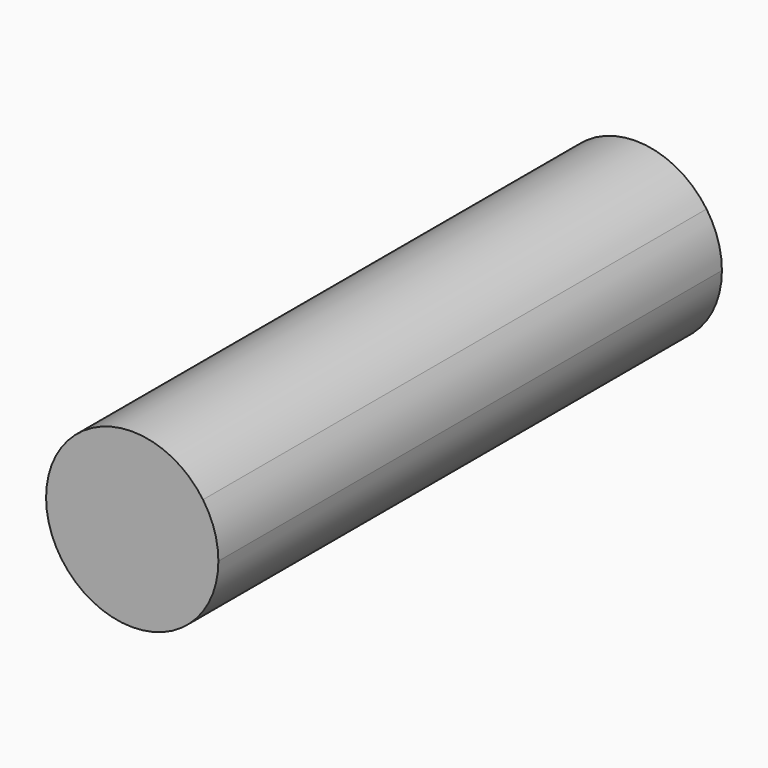
from build123d import *

# Parameters (mm, degrees)
F1_DEPTH = 25.4


with BuildPart() as f1:
    # F0 (on Front) → F1 (new body)
    with BuildSketch(Plane.XZ):
        with BuildLine():
            Line((-27.4963983576, 49.4537892033), (-30.3528066725, 47.4717915058))
            Line((-30.3528066725, 47.4717915058), (-30.3528066725, 43.9951000708))
            ThreePointArc((-30.3528066725, 43.9951000708), (-27.8944145827, 45.0133994161), (-26.8761152375, 47.4717915058))
            ThreePointArc((-26.8761152375, 47.4717915058), (-27.0348077531, 48.5101876275), (-27.4963983576, 49.4537892033))
        make_face()
        with BuildLine():
            Line((-33.2092149873, 45.4897938083), (-30.3528066725, 47.4717915058))
            Line((-30.3528066725, 47.4717915058), (-27.4963983576, 49.4537892033))
            ThreePointArc((-27.4963983576, 49.4537892033), (-32.3348043699, 50.3281998207), (-33.2092149873, 45.4897938083))
        make_face()
        with BuildLine():
            Line((-30.3528066725, 43.9951000708), (-30.3528066725, 47.4717915058))
            Line((-30.3528066725, 47.4717915058), (-33.2092149873, 45.4897938083))
            ThreePointArc((-33.2092149873, 45.4897938083), (-31.9647292691, 44.3913550308), (-30.3528066725, 43.9951000708))
        make_face()
    extrude(amount=F1_DEPTH)


solid = f1.part
